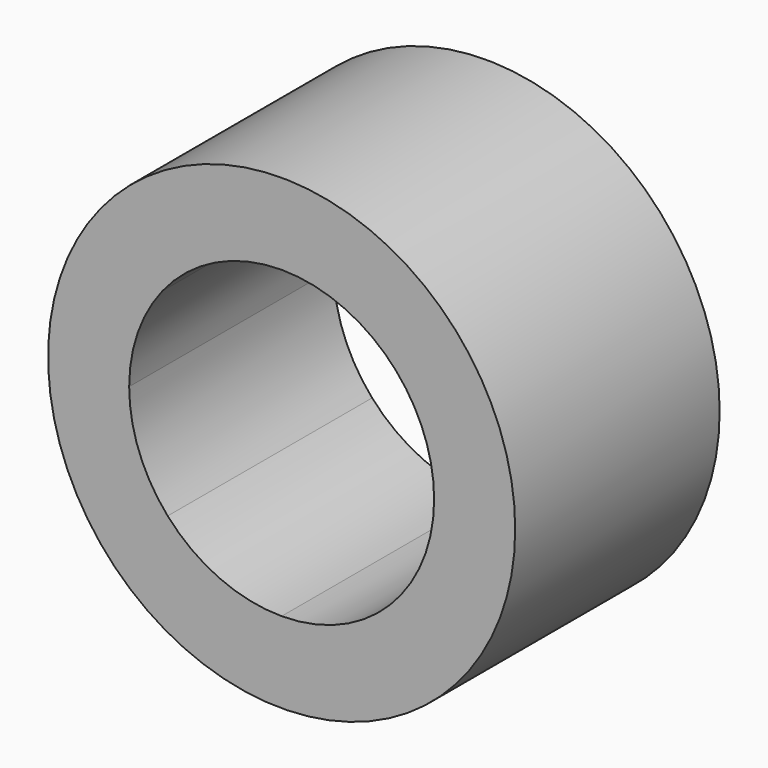
from build123d import *

# Parameters (mm, degrees)
F0_R     = 58.262623
F1_DEPTH = 34.544
F2_DEPTH = 63.754


with BuildPart() as f1:
    # F0 (on Front) → F1 (new body)
    with BuildSketch(Plane.XZ):
        Circle(F0_R)
        with BuildLine():
            ThreePointArc((25.805285, 27.944596), (34.845149, 15.252174), (38.036998, 0))
            ThreePointArc((38.036998, 0), (35.17286, -14.480438), (27.01178, -26.780159))
            ThreePointArc((27.01178, -26.780159), (14.631752, -35.110184), (0, -38.036998))
            ThreePointArc((0, -38.036998), (-15.583326, -34.698316), (-28.431013, -25.268374))
            ThreePointArc((-28.431013, -25.268374), (-35.55449, -13.516339), (-38.036998, 0))
            ThreePointArc((-38.036998, 0), (-35.902258, 12.56348), (-29.737655, 23.716767))
            ThreePointArc((-29.737655, 23.716767), (-16.503008, 34.270452), (0, 38.036998))
            ThreePointArc((0, 38.036998), (13.854325, 35.424156), (25.805285, 27.944596))
        make_face(mode=Mode.SUBTRACT)
    extrude(amount=F1_DEPTH)

    # F0 (on Front) → F2 (join)
    with BuildSketch(Plane.XZ):
        Circle(F0_R)
        with BuildLine():
            ThreePointArc((25.805285, 27.944596), (34.845149, 15.252174), (38.036998, 0))
            ThreePointArc((38.036998, 0), (35.17286, -14.480438), (27.01178, -26.780159))
            ThreePointArc((27.01178, -26.780159), (14.631752, -35.110184), (0, -38.036998))
            ThreePointArc((0, -38.036998), (-15.583326, -34.698316), (-28.431013, -25.268374))
            ThreePointArc((-28.431013, -25.268374), (-35.55449, -13.516339), (-38.036998, 0))
            ThreePointArc((-38.036998, 0), (-35.902258, 12.56348), (-29.737655, 23.716767))
            ThreePointArc((-29.737655, 23.716767), (-16.503008, 34.270452), (0, 38.036998))
            ThreePointArc((0, 38.036998), (13.854325, 35.424156), (25.805285, 27.944596))
        make_face(mode=Mode.SUBTRACT)
    extrude(amount=F2_DEPTH)


solid = f1.part
